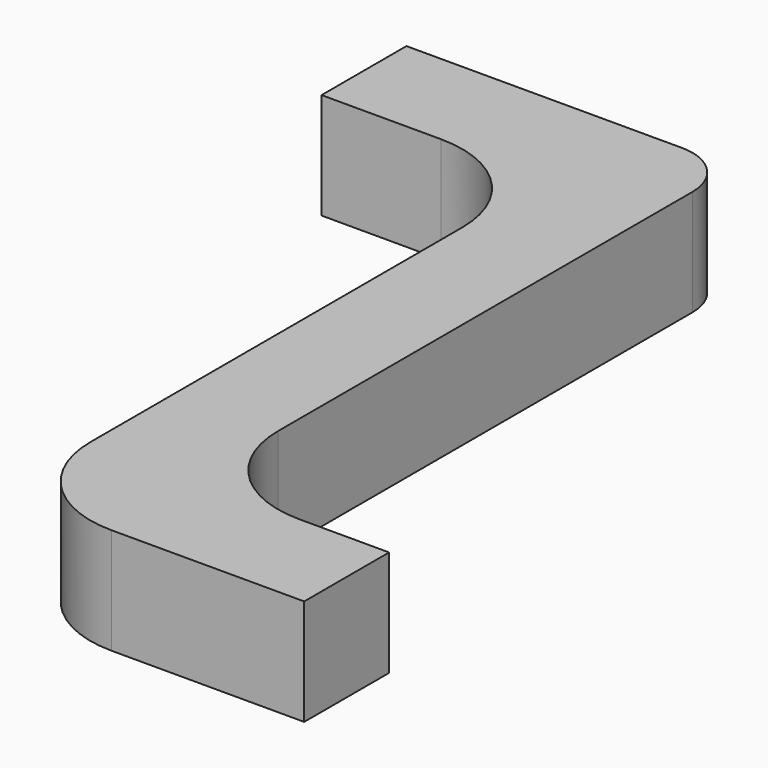
from build123d import *

# Parameters (mm, degrees)
F1_DEPTH = 10


with BuildPart() as f1:
    # F0 (on Top) → F1 (new body)
    with BuildSketch(Plane.XY):
        with BuildLine():
            Line((-3.827411, 35.552086), (-13.827411, 35.552086))
            Line((-13.827411, 35.552086), (-29.77983, 35.552086))
            Line((-29.77983, 35.552086), (-29.77983, 25.552086))
            Line((-29.77983, 25.552086), (-18.515125, 25.552086))
            ThreePointArc((-18.515125, 25.552086), (-11.444057, 22.623154), (-8.515125, 15.552086))
            Line((-8.515125, 15.552086), (-8.515125, -28.264501))
            ThreePointArc((-8.515125, -28.264501), (-5.586193, -35.335569), (1.484875, -38.264501))
            Line((1.484875, -38.264501), (2.905105, -38.264501))
            Line((2.905105, -38.264501), (19.63667, -38.264501))
            Line((19.63667, -38.264501), (19.63667, -28.264501))
            Line((19.63667, -28.264501), (11.172589, -28.264501))
            ThreePointArc((11.172589, -28.264501), (4.101521, -25.335569), (1.172589, -18.264501))
            Line((1.172589, -18.264501), (1.172589, 30.552086))
            ThreePointArc((1.172589, 30.552086), (-0.291877, 34.08762), (-3.827411, 35.552086))
        make_face()
    extrude(amount=F1_DEPTH)


solid = f1.part
